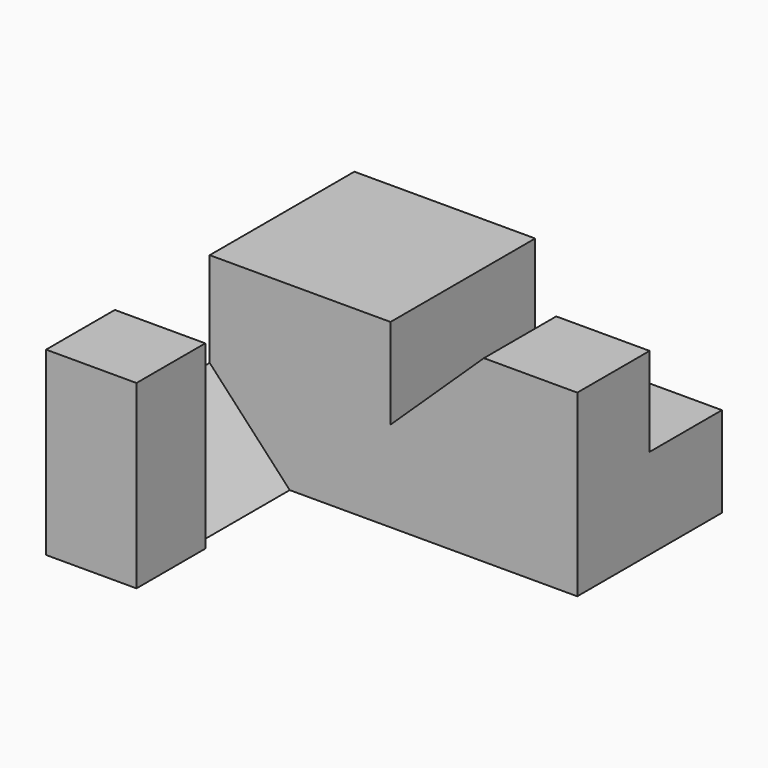
from build123d import *

# Parameters (mm, degrees)
F0_W      = 15.494
F0_H      = 15.494
F1_DEPTH  = 7.747
F3_DEPTH  = 10.16
F5_DEPTH  = 7.366
F6_W      = 15.494
F6_H      = 7.747
F7_DEPTH  = 16.002
F8_W      = 8.001
F8_H      = 7.747
F9_DEPTH  = 7.62
F11_DEPTH = 7.747


with BuildPart() as f1:
    # F0 (on Front) → F1 (new body, symmetric)
    with BuildSketch(Plane.XZ):
        Rectangle(F0_W, F0_H)
    extrude(amount=F1_DEPTH, both=True)

    # F2 (on face) → F3 (join)
    with BuildSketch(Plane.XZ.offset(7.747)):
        Polygon((-7.747, -0.381), (-7.747, -7.747), (-0.889, -7.747), align=None)
    extrude(amount=F3_DEPTH)

    # F4 (on face) → F5 (join)
    with BuildSketch(Plane.XZ.offset(17.907)):
        Polygon((0, -7.747), (0, 7.747), (-7.747, 7.747), (-7.747, -7.747), (-0.889, -7.747), align=None)
    extrude(amount=F5_DEPTH)

    # F6 (on face) → F7 (join)
    with BuildSketch(Plane.YZ.offset(7.747)):
        with Locations((0, -3.8735)):
            Rectangle(F6_W, F6_H)
    extrude(amount=F7_DEPTH)

    # F8 (on face) → F9 (join)
    with BuildSketch(Plane.XY):
        with Locations((19.7485, -3.8735)):
            Rectangle(F8_W, F8_H)
        with Locations((19.7485, -3.8735)):
            Rectangle(F8_W, F8_H)
    extrude(amount=F9_DEPTH)

    # F10 (on face) → F11 (join)
    with BuildSketch(Plane.XZ.offset(7.747)):
        Polygon((15.748, 7.62), (7.747, 0), (15.748, 0), align=None)
    extrude(amount=-F11_DEPTH)


solid = f1.part
